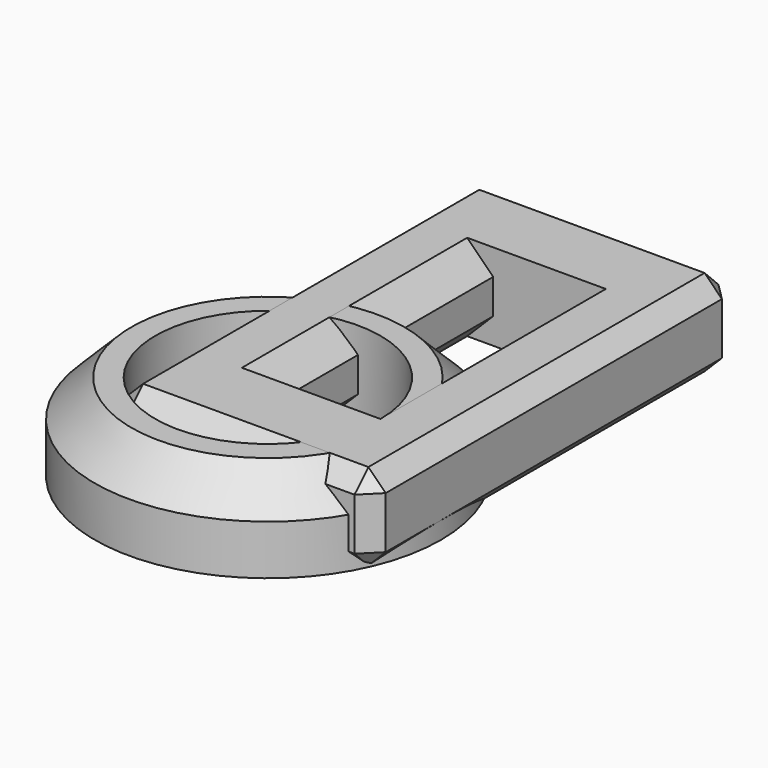
from build123d import *

# Parameters (mm, degrees)
TUBE_R          = 4
TUBE_R_2        = 2.6
TUBE_DEPTH      = 2
CHAMFER_SIZE    = 0.85
BOX_W           = 2
BOX_H           = 6.5
BOX_DEPTH       = 2
BOX001_W        = 6
BOX001_H        = 10.5
BOX001_DEPTH    = 2
CHAMFER001_SIZE = 0.6
CHAMFER002_SIZE = 0.4


with BuildPart() as chamfer_body:
    # Tube → Tube (new body)
    with BuildSketch(Plane.XY):
        Circle(TUBE_R)
        Circle(TUBE_R_2, mode=Mode.SUBTRACT)
    extrude(amount=TUBE_DEPTH)

    # Chamfer
    chamfer_edges = [chamfer_body.edges().sort_by_distance(p)[0] for p in [
        (-4, 0, 2),
    ]]
    chamfer(chamfer_edges, length=CHAMFER_SIZE)


with BuildPart() as cube:
    # Box → Box (new body)
    with BuildSketch(Plane.XY):
        with Locations((1, 3.25)):
            Rectangle(BOX_W, BOX_H)
    extrude(amount=BOX_DEPTH)


with BuildPart() as chamfer002:
    # Box001 → Box001 (new body)
    with BuildSketch(Plane(origin=(-2, -2, 0), x_dir=(1, 0, 0), z_dir=(0, 0, 1))):
        with Locations((3, 5.25)):
            Rectangle(BOX001_W, BOX001_H)
    extrude(amount=BOX001_DEPTH)

    # Cut: cut Cube
    add(cube.part, mode=Mode.SUBTRACT)

    # Chamfer001
    chamfer001_edges = [chamfer002.edges().sort_by_distance(p)[0] for p in [
        (0, 3.25, 2),
        (2, 3.25, 2),
        (0, 3.25, 0),
        (2, 3.25, 0),
    ]]
    chamfer(chamfer001_edges, length=CHAMFER001_SIZE)

    # Chamfer002
    chamfer002_edges = [chamfer002.edges().sort_by_distance(p)[0] for p in [
        (-2, 3.25, 2),
        (1, -2, 2),
        (4, 3.25, 2),
        (1, 8.5, 2),
        (-2, -2, 1),
        (-2, 8.5, 1),
        (-2, 3.25, 0),
        (1, 8.5, 0),
        (4, 8.5, 1),
        (1, -2, 0),
        (4, -2, 1),
        (4, 3.25, 0),
    ]]
    chamfer(chamfer002_edges, length=CHAMFER002_SIZE)


solid = Compound([chamfer_body.part, chamfer002.part])
